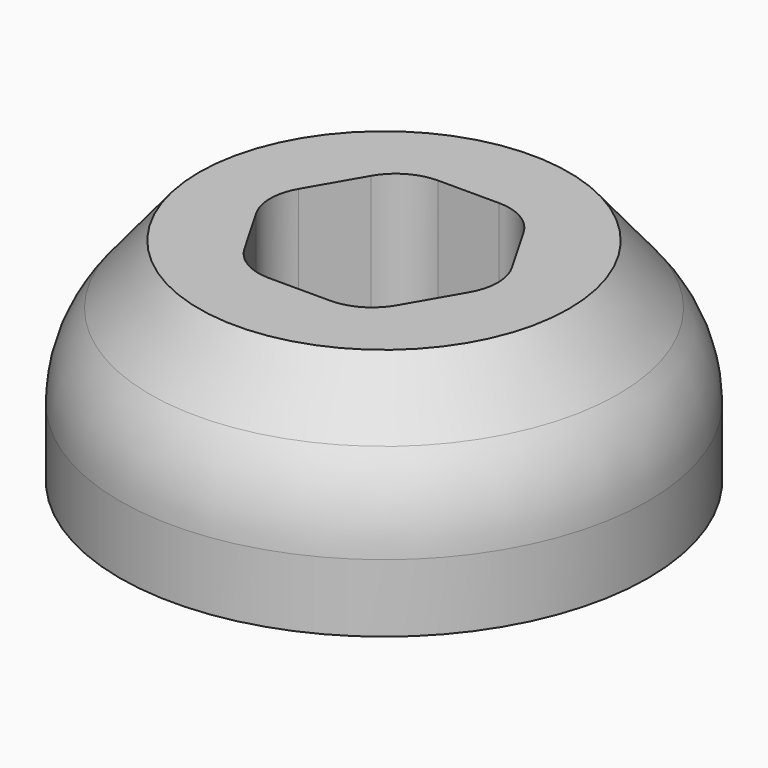
from build123d import *

# Parameters (mm, degrees)
F3_DEPTH = 5.5
F4_R     = 1.25
F5_DEPTH = 3
F6_R     = 2


with BuildPart() as f1:
    # F0 (on Front) → F1 (revolve)
    with BuildSketch(Plane.XZ):
        with BuildLine():
            Line((0, 8), (0, 0))
            Line((0, 0), (10, 0))
            Line((10, 0), (10, 2.567338))
            ThreePointArc((10, 2.567338), (9.705546, 4.25785), (8.856867, 5.749252))
            Line((8.856867, 5.749252), (7, 8))
            Line((7, 8), (0, 8))
        make_face()
    revolve(axis=Axis((0, 0, 6.785496), (0, 0, 1)))

    # F2 (on face) → F3 (cut)
    with BuildSketch(Plane.XY.offset(8)):
        Polygon((2.309401, 4), (-2.309401, 4), (-4.618802, 0), (-2.309401, -4), (2.309401, -4), (4.618802, 0), align=None)
    extrude(amount=-F3_DEPTH, mode=Mode.SUBTRACT)

    # F4 (on face) → F5 (cut)
    with BuildSketch(Plane.XY.offset(2.5)):
        Circle(F4_R)
    extrude(amount=-F5_DEPTH, mode=Mode.SUBTRACT)

    # F6
    f6_edges = [f1.edges().sort_by_distance(p)[0] for p in [
        (-2.309401, 4, 5.25),
        (2.309401, 4, 5.25),
        (-2.309401, -4, 5.25),
        (2.309401, -4, 5.25),
        (-4.618802, 0, 5.25),
        (4.618802, 0, 5.25),
    ]]
    fillet(f6_edges, radius=F6_R)


solid = f1.part
